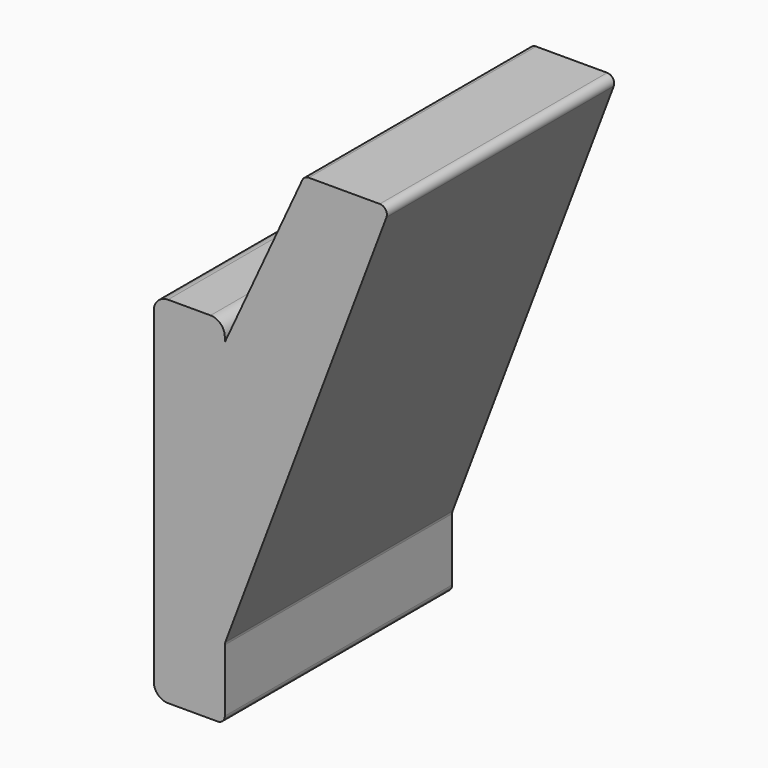
from build123d import *

# Parameters (mm, degrees)
F1_DEPTH = 40


with BuildPart() as f1:
    # F0 (on Front) → F1 (new body)
    with BuildSketch(Plane.XZ):
        with BuildLine():
            Line((-10, 48), (-10, 2))
            ThreePointArc((-10, 2), (-9.414214, 0.585786), (-8, 0))
            Line((-8, 0), (-1, 0))
            ThreePointArc((-1, 0), (-0.292893, 0.292893), (0, 1))
            Line((0, 1), (0, 9.817332))
            ThreePointArc((0, 9.817332), (0.016278, 9.997027), (0.06458, 10.170871))
            Line((0.06458, 10.170871), (22.754657, 70.206017))
            ThreePointArc((22.754657, 70.206017), (22.641897, 71.12809), (21.819237, 71.559556))
            Line((21.819237, 71.559556), (11.819237, 71.559556))
            ThreePointArc((11.819237, 71.559556), (11.280192, 71.401832), (10.911186, 70.978416))
            Line((10.911186, 70.978416), (0, 47.323943))
            Line((0, 47.323943), (0, 48))
            ThreePointArc((0, 48), (-0.585786, 49.414214), (-2, 50))
            Line((-2, 50), (-8, 50))
            ThreePointArc((-8, 50), (-9.414214, 49.414214), (-10, 48))
        make_face()
    extrude(amount=F1_DEPTH)


solid = f1.part
